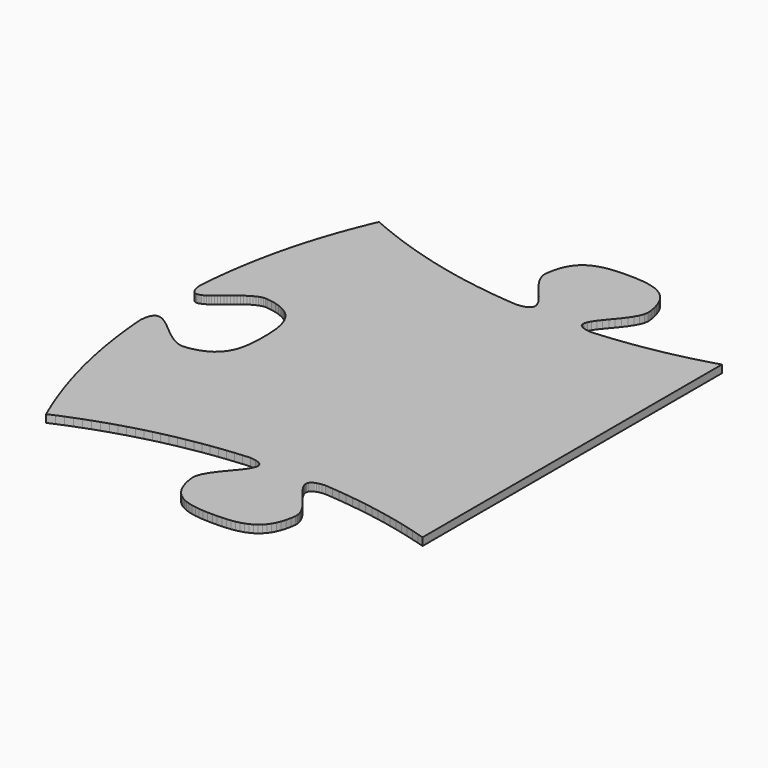
from build123d import *

# Parameters (mm, degrees)
F1_DEPTH = 100


with BuildPart() as f1:
    # F0 (on Top) → F1 (new body)
    with BuildSketch(Plane.XY):
        Polygon((6104.230616, -2658.850664), (6142.613013, -2748.369662), (6232.132341, -2710.017872), (6321.692081, -2673.070981), (6411.318496, -2637.522614), (6501.037925, -2603.366371), (6590.876633, -2570.595875), (6680.860933, -2539.204751), (6771.01709, -2509.186625), (6861.371444, -2480.535069), (6951.950231, -2453.243735), (7042.779793, -2427.306245), (7133.886393, -2402.716175), (7225.296344, -2379.467174), (7317.035912, -2357.552841), (7409.131435, -2336.966802), (7501.609178, -2317.70268), (7594.495428, -2299.754075), (7687.816476, -2283.114585), (7781.598661, -2267.777888), (7875.868221, -2253.73753), (7970.65147, -2240.987161), (8065.974724, -2229.520382), (8161.864245, -2219.330842), (8258.346348, -2210.412115), (8355.447297, -2202.75785), (8428.631098, -2212.352903), (8480.488983, -2228.588024), (8513.182389, -2250.915209), (8528.872833, -2278.786451), (8529.721803, -2311.653721), (8517.890813, -2348.969038), (8495.541353, -2390.184399), (8464.834886, -2434.751773), (8427.932928, -2482.123154), (8386.996967, -2531.750563), (8344.188493, -2583.085969), (8301.66902, -2635.581368), (8261.600012, -2688.688781), (8226.142984, -2741.860175), (8197.459424, -2794.547548), (8177.710823, -2846.202918), (8169.058643, -2896.278231), (8173.99625, -2953.461683), (8186.361199, -3019.092489), (8202.387126, -3078.291481), (8221.996002, -3131.377456), (8245.109824, -3178.669208), (8271.650513, -3220.485558), (8301.54009, -3257.145302), (8334.700476, -3288.96726), (8371.053667, -3316.270253), (8410.521609, -3339.373052), (8453.026274, -3358.594477), (8498.489632, -3374.253348), (8546.833656, -3386.668436), (8597.980289, -3396.158587), (8651.851556, -3403.042597), (8708.36935, -3407.63926), (8767.455693, -3410.267398), (8829.032507, -3411.245781), (8891.486662, -3410.838873), (8951.573994, -3408.908879), (9009.120895, -3405.137894), (9064.049715, -3399.20707), (9116.282733, -3390.797638), (9165.742324, -3379.590777), (9212.35074, -3365.267666), (9256.030358, -3347.509536), (9296.703479, -3325.997539), (9334.292431, -3300.412881), (9368.71954, -3270.436766), (9399.907108, -3235.750399), (9427.777487, -3196.034934), (9452.252978, -3150.9716), (9473.255882, -3100.241577), (9490.708578, -3043.526044), (9504.53334, -2980.506231), (9513.455776, -2920.552147), (9513.982394, -2896.278231), (9511.193881, -2871.472337), (9505.360466, -2846.202918), (9496.752304, -2820.538479), (9485.639601, -2794.547548), (9472.292536, -2768.298629), (9456.981264, -2741.860175), (9439.97604, -2715.300742), (9421.546994, -2688.688781), (9401.96433, -2662.092847), (9381.49823, -2635.581368), (9360.418897, -2609.222925), (9338.996486, -2583.085969), (9317.501228, -2557.239005), (9296.203277, -2531.750563), (9275.372813, -2506.689094), (9255.280067, -2482.123154), (9236.195167, -2458.121195), (9218.388345, -2434.751773), (9202.12978, -2412.083314), (9187.689651, -2390.184399), (9175.338114, -2369.123456), (9165.345423, -2348.969038), (9157.981709, -2329.789625), (9153.517177, -2311.653721), (9152.222005, -2294.629828), (9154.3664, -2278.786451), (9160.220542, -2264.192068), (9170.054609, -2250.915209), (9184.138782, -2239.024376), (9202.743266, -2228.588024), (9226.138241, -2219.674707), (9254.593886, -2212.352903), (9288.380382, -2206.691116), (9327.767933, -2202.75785), (9424.853109, -2210.412115), (9521.320073, -2219.330842), (9617.195167, -2229.520382), (9712.504629, -2240.987161), (9807.274772, -2253.73753), (9901.531911, -2267.777888), (9995.302311, -2283.114585), (10088.612284, -2299.754075), (10181.488121, -2317.70268), (10273.956109, -2336.966802), (10366.042565, -2357.552841), (10457.77375, -2379.467174), (10549.175955, -2402.716175), (10640.275494, -2427.306245), (10731.09868, -2453.243735), (10808.275259, -2476.498451), (10808.275259, -188.066197), (10808.275259, 2377.665374), (10731.09868, 2354.400625), (10640.275494, 2328.451198), (10549.175955, 2303.849113), (10457.77375, 2280.588022), (10366.042565, 2258.661599), (10273.956109, 2238.063545), (10181.488121, 2218.787485), (10088.612284, 2200.827145), (9995.302311, 2184.176124), (9901.531911, 2168.828174), (9807.274772, 2154.776894), (9712.504629, 2142.016011), (9617.195167, 2130.539173), (9521.320073, 2120.340057), (9424.853109, 2111.412338), (9327.767933, 2103.749666), (9254.593886, 2113.346548), (9202.743266, 2129.5868), (9170.054609, 2151.921985), (9154.3664, 2179.803718), (9153.517177, 2212.683535), (9165.345423, 2250.013001), (9187.689651, 2291.243703), (9218.388345, 2335.827205), (9255.280067, 2383.215046), (9296.203277, 2432.858812), (9338.996486, 2484.210094), (9381.49823, 2536.720428), (9421.546994, 2589.841404), (9456.981264, 2643.024559), (9485.639601, 2695.721507), (9505.360466, 2747.383786), (9513.982394, 2797.46296), (9509.030029, 2854.638461), (9496.678187, 2920.249455), (9480.667348, 2979.430947), (9461.075185, 3032.501555), (9437.979422, 3079.779972), (9411.457682, 3121.584867), (9381.587663, 3158.234908), (9348.447038, 3190.048713), (9312.113507, 3217.345026), (9272.664741, 3240.44244), (9230.17839, 3259.659648), (9184.732177, 3275.315319), (9136.403749, 3287.728096), (9085.27078, 3297.216672), (9031.410944, 3304.099716), (8974.901964, 3308.695846), (8915.821462, 3311.323756), (8854.247163, 3312.302138), (8791.791941, 3311.895205), (8731.700037, 3309.965161), (8674.145441, 3306.193972), (8619.206206, 3300.262767), (8566.960362, 3291.852675), (8517.485937, 3280.644798), (8470.860935, 3266.32029), (8427.163435, 3248.560254), (8386.471441, 3227.045819), (8348.862982, 3201.458088), (8314.416112, 3171.478214), (8283.208859, 3136.7873), (8255.319253, 3097.06645), (8230.825321, 3051.996842), (8209.805094, 3001.259555), (8192.336625, 2944.535716), (8178.497918, 2881.506454), (8169.569208, 2821.547214), (8169.058643, 2797.288538), (8171.862574, 2772.496055), (8177.710823, 2747.238371), (8186.333157, 2721.584041), (8197.459424, 2695.601695), (8210.819418, 2669.359863), (8226.142984, 2642.92715), (8243.159917, 2616.372136), (8261.600012, 2589.763401), (8281.193115, 2563.169524), (8301.66902, 2536.659087), (8322.757548, 2510.300669), (8344.188493, 2484.16285), (8365.691701, 2458.31421), (8386.996967, 2432.823328), (8407.834111, 2407.758786), (8427.932928, 2383.189163), (8447.023238, 2359.183039), (8464.834886, 2335.809019), (8481.097643, 2313.135658), (8495.541353, 2291.231536), (8507.895786, 2270.165234), (8517.890813, 2250.00533), (8525.256229, 2230.82043), (8529.721803, 2212.67909), (8531.017406, 2195.649914), (8528.872833, 2179.801457), (8523.017879, 2165.202299), (8513.182389, 2151.921045), (8499.096134, 2140.026251), (8480.488983, 2129.586495), (8457.09068, 2120.670384), (8428.631098, 2113.346497), (8394.840056, 2107.683389), (8355.447297, 2103.749666), (8258.346348, 2111.412338), (8161.864245, 2120.340057), (8065.974724, 2130.539173), (7970.65147, 2142.016011), (7875.868221, 2154.776894), (7781.598661, 2168.828174), (7687.816476, 2184.176124), (7594.495428, 2200.827145), (7501.609178, 2218.787485), (7409.131435, 2238.063545), (7317.035912, 2258.661599), (7225.296344, 2280.588022), (7133.886393, 2303.849113), (7042.779793, 2328.451198), (6951.950231, 2354.400625), (6861.371444, 2381.70372), (6771.01709, 2410.366782), (6680.860933, 2440.396161), (6590.876633, 2471.798206), (6501.037925, 2504.579217), (6411.318496, 2538.745519), (6321.692081, 2574.303462), (6232.132341, 2611.25937), (6142.613013, 2649.619542), (6104.230616, 2560.077989), (6067.256319, 2470.499707), (6031.683542, 2380.858103), (5997.505785, 2291.126533), (5964.716442, 2201.278351), (5933.309012, 2111.286964), (5903.27689, 2021.125676), (5874.613549, 1930.767944), (5847.312461, 1840.187074), (5821.367021, 1749.356445), (5796.770728, 1658.249465), (5773.516977, 1566.839462), (5751.599266, 1475.099818), (5731.011017, 1383.003914), (5711.745676, 1290.525105), (5693.796715, 1197.636797), (5677.157556, 1104.312295), (5661.821646, 1010.52503), (5647.782431, 916.248358), (5635.033383, 821.455634), (5623.567925, 726.120239), (5613.379528, 630.215529), (5604.461613, 533.714909), (5596.807653, 436.59171), (5600.741224, 397.215004), (5606.4039, 363.438999), (5613.72705, 334.993564), (5622.642171, 311.608445), (5633.080707, 293.01346), (5644.974029, 278.938406), (5658.253657, 269.113127), (5672.850961, 263.267393), (5688.697411, 261.131025), (5705.724428, 262.433816), (5723.863457, 266.905588), (5743.045943, 274.276109), (5763.203333, 284.2752), (5784.267019, 296.632706), (5806.168474, 311.078372), (5828.839142, 327.342043), (5852.210419, 345.153488), (5876.2138, 364.242553), (5900.78068, 384.339008), (5925.842504, 405.172672), (5951.330693, 426.473341), (5977.176743, 447.970859), (6003.312022, 469.394972), (6029.668002, 490.475499), (6056.176102, 510.942285), (6082.767794, 530.525101), (6109.374497, 548.953741), (6135.927632, 565.958025), (6162.358643, 581.267773), (6188.598977, 594.612755), (6214.580052, 605.722817), (6240.233341, 614.327727), (6265.490238, 620.157307), (6290.282212, 622.94135), (6314.540711, 622.409677), (6374.499926, 613.510203), (6437.529187, 599.70924), (6494.253026, 582.27402), (6544.990314, 561.28285), (6590.059921, 536.814039), (6629.780771, 508.945921), (6664.471685, 477.75683), (6694.451559, 443.325021), (6720.03929, 405.728881), (6741.553725, 365.046666), (6759.313761, 321.356736), (6773.638269, 274.737398), (6784.846146, 225.266961), (6793.256238, 173.023759), (6799.187443, 118.086073), (6802.958632, 60.532264), (6804.888676, 0.440614), (6805.29561, -62.014684), (6804.317252, -123.591472), (6801.689318, -182.677714), (6797.093188, -239.195254), (6790.210143, -293.066013), (6780.721567, -344.211885), (6768.30879, -392.554739), (6752.653119, -438.016498), (6733.435911, -480.51908), (6710.338497, -519.98433), (6683.042209, -556.334168), (6651.228379, -589.49049), (6614.578338, -619.37519), (6572.773443, -645.910164), (6525.495026, -669.017306), (6472.424419, -688.618511), (6413.242927, -704.6357), (6347.631933, -716.990717), (6290.456634, -721.930408), (6240.378756, -713.287905), (6188.718788, -693.547838), (6136.025041, -664.871721), (6082.845797, -629.421169), (6029.729343, -589.357724), (5977.223987, -546.84295), (5925.877988, -504.038387), (5876.239683, -463.105627), (5828.857303, -426.20626), (5784.279186, -395.5018), (5743.053614, -373.153813), (5705.728873, -361.323915), (5672.853221, -362.173596), (5644.974994, -377.864497), (5622.642476, -410.558132), (5606.403926, -462.416068), (5596.807653, -535.599894), (5604.461613, -632.700538), (5613.379528, -729.181676), (5623.567925, -825.069699), (5635.033383, -920.390946), (5647.782431, -1015.171731), (5661.821646, -1109.438472), (5677.157556, -1203.217456), (5693.796715, -1296.53505), (5711.745676, -1389.417617), (5731.011017, -1481.891499), (5751.599266, -1573.983034), (5773.516977, -1665.718589), (5796.770728, -1757.124527), (5821.367021, -1848.227165), (5847.312461, -1939.052866), (5874.613549, -2029.62797), (5903.27689, -2119.978844), (5933.309012, -2210.131826), (5964.716442, -2300.113281), (5997.505785, -2389.949525), (6031.683542, -2479.666948), (6067.256319, -2569.291864), align=None)
    extrude(amount=F1_DEPTH)


solid = f1.part
